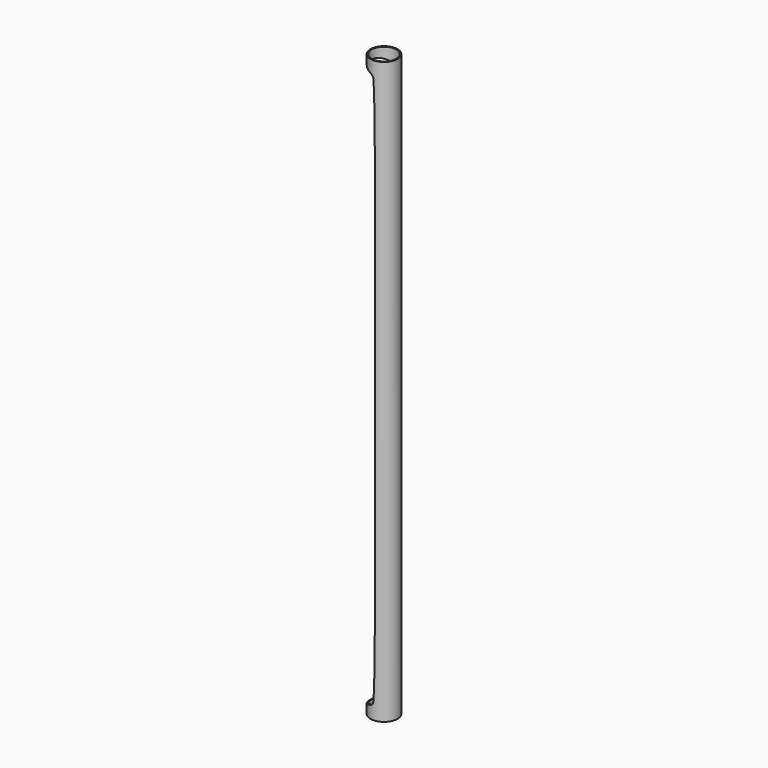
from build123d import *

# Parameters (mm, degrees)
F0_R          = 23.7504438376
F1_DEPTH      = 20
F2_R          = 21.7504438376
F3_DEPTH      = 266
F4_DEPTH      = 1000
F6_DEPTH      = 15.465659675
F6_DEPTH_BACK = 32.0372280002


with BuildPart() as f1:
    # F0 (on Top) → F1 (new body)
    with BuildSketch(Plane.XY):
        with Locations((-22.2582425922, -8.2857841626)):
            Circle(F0_R)
    extrude(amount=F1_DEPTH)

    # F2 (on face) → F3 (cut)
    with BuildSketch(Plane.XY.offset(20)):
        with Locations((-22.2582425922, -8.2857841626)):
            Circle(F2_R)
    extrude(amount=-F3_DEPTH, mode=Mode.SUBTRACT)

    # F4 (add): a face of the model
    f4_faces = [f1.faces().sort_by_distance(p)[0] for p in [
        (-45.3369224341, -8.2857841626, 20),
    ]]
    extrude(f4_faces, amount=F4_DEPTH)

    # F5 (on Front) → F6 (cut, two sides)
    with BuildSketch(Plane.XZ) as f6_sk:
        with BuildLine():
            add(Edge.make_bspline(
                [(-55.8318458498, 1008.3430860281), (-49.6172251499, 1006.796824952), (-24.017064275, 997.4427413881), (-17.2324633191, 991.0383016473), (-19.4432802391, 548.358902405), (-19.5815917104, 510)],
                knots=[0, 0, 0, 0, 0.1751388276, 0.3005274907, 1, 1, 1, 1], degree=3))
            Line((-55.8318458498, 1008.3430860281), (-55.8318458498, 11.6569139719))
            add(Edge.make_bspline(
                [(-55.8318458498, 11.6569139719), (-49.6172251499, 13.203175048), (-24.017064275, 22.5572586119), (-17.2324633191, 28.9616983527), (-19.4432802391, 471.641097595), (-19.5815917104, 510)],
                knots=[0, 0, 0, 0, 0.1751388276, 0.3005274907, 1, 1, 1, 1], degree=3))
        make_face()
    extrude(amount=-F6_DEPTH, mode=Mode.SUBTRACT)
    extrude(f6_sk.sketch, amount=F6_DEPTH_BACK, mode=Mode.SUBTRACT)


solid = f1.part
